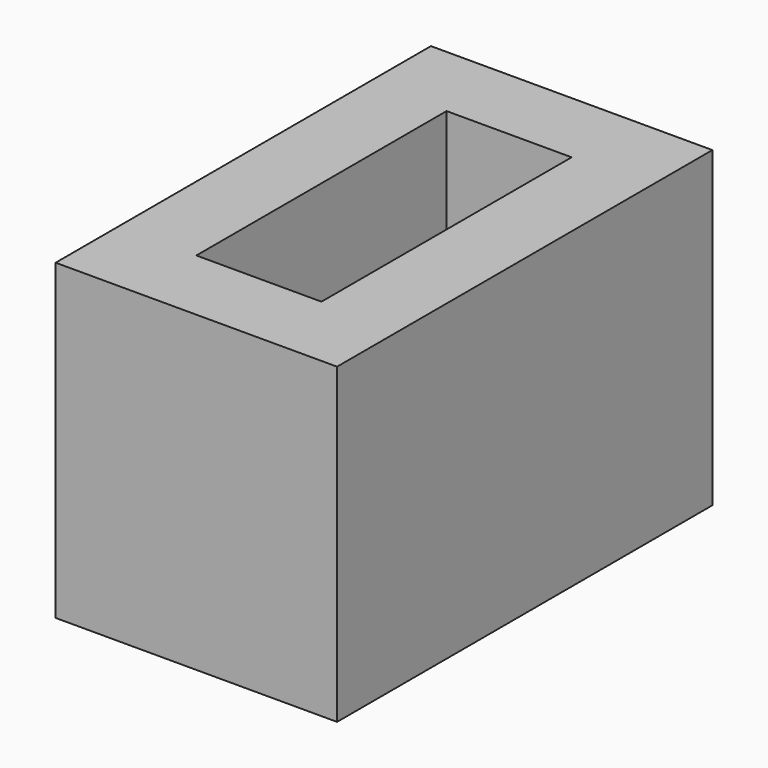
from build123d import *

# Parameters (mm, degrees)
F0_W     = 2.25
F0_H     = 3.75
F1_DEPTH = 5
F2_W     = 1
F2_H     = 2.5
F3_DEPTH = 3.5


with BuildPart() as f1:
    # F0 (on Top) → F1 (new body)
    with BuildSketch(Plane.XY):
        with Locations((1.125, 1.875)):
            Rectangle(F0_W, F0_H)
        with Locations((-1.125, 1.875)):
            Rectangle(F0_W, F0_H)
        Polygon((2.25, 0), (0, 0), (-2.25, 0), (-2.25, -3.75), (0, -3.75), (2.25, -3.75), align=None)
    extrude(amount=-F1_DEPTH)

    # F2 (on face) → F3 (cut)
    with BuildSketch(Plane.XY):
        with Locations((0.5, 1.25)):
            Rectangle(F2_W, F2_H)
        with Locations((-0.5, 1.25)):
            Rectangle(F2_W, F2_H)
        Polygon((1, 0), (0, 0), (-1, 0), (-1, -2.5), (0, -2.5), (1, -2.5), align=None)
    extrude(amount=-F3_DEPTH, mode=Mode.SUBTRACT)


solid = f1.part
